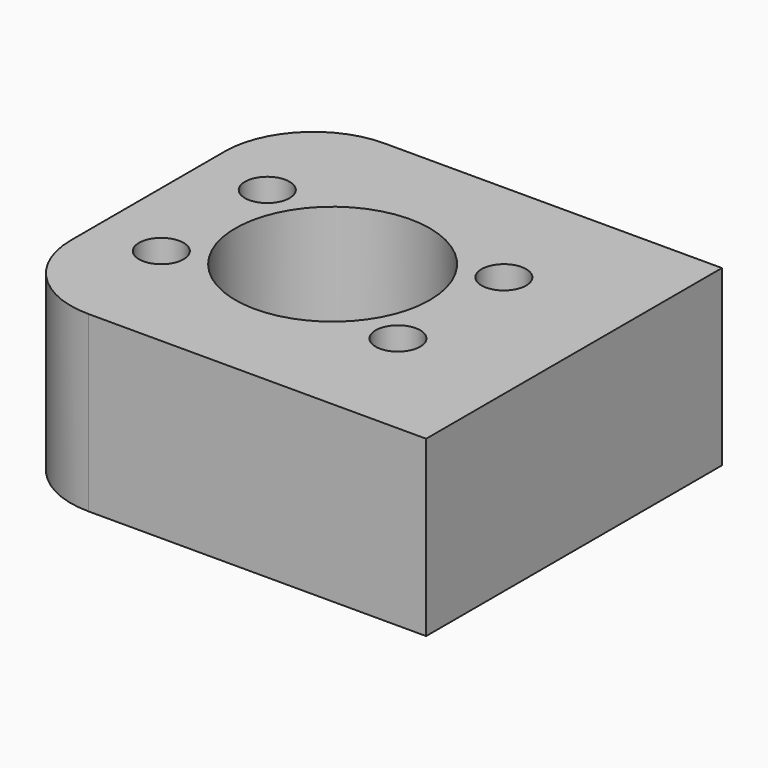
from build123d import *

# Parameters (mm, degrees)
SKETCH008_W  = 57.65
SKETCH008_H  = 50
PAD_DEPTH    = 23.5
SKETCH_R     = 13.15
HOLE_DEPTH   = 23.6
SKETCH009_R  = 3.015
POCKET_DEPTH = 23.501
FILLET_R     = 12


with BuildPart() as part:
    # Sketch008 → Pad (new body)
    with BuildSketch(Plane.XY):
        with Locations((3.825, 0)):
            Rectangle(SKETCH008_W, SKETCH008_H)
    extrude(amount=PAD_DEPTH)

    # Sketch (on Face6 of Pad) → Hole (cut)
    with BuildSketch(Plane.XY.offset(23.5)):
        Circle(SKETCH_R)
    extrude(amount=-HOLE_DEPTH, mode=Mode.SUBTRACT)

    # Sketch009 (on Face5 of Hole) → Pocket (cut, through all)
    with BuildSketch(Plane.XY.offset(23.5)):
        with Locations((-16, 8.955)):
            Circle(SKETCH009_R)
        with Locations((-16, -8.955)):
            Circle(SKETCH009_R)
        with Locations((16, 8.955)):
            Circle(SKETCH009_R)
        with Locations((16, -8.955)):
            Circle(SKETCH009_R)
    extrude(amount=-POCKET_DEPTH, mode=Mode.SUBTRACT)

    # Fillet
    fillet_edges = [part.edges().sort_by_distance(p)[0] for p in [
        (-25, 25, 11.75),
        (-25, -25, 11.75),
    ]]
    fillet(fillet_edges, radius=FILLET_R)


solid = part.part
